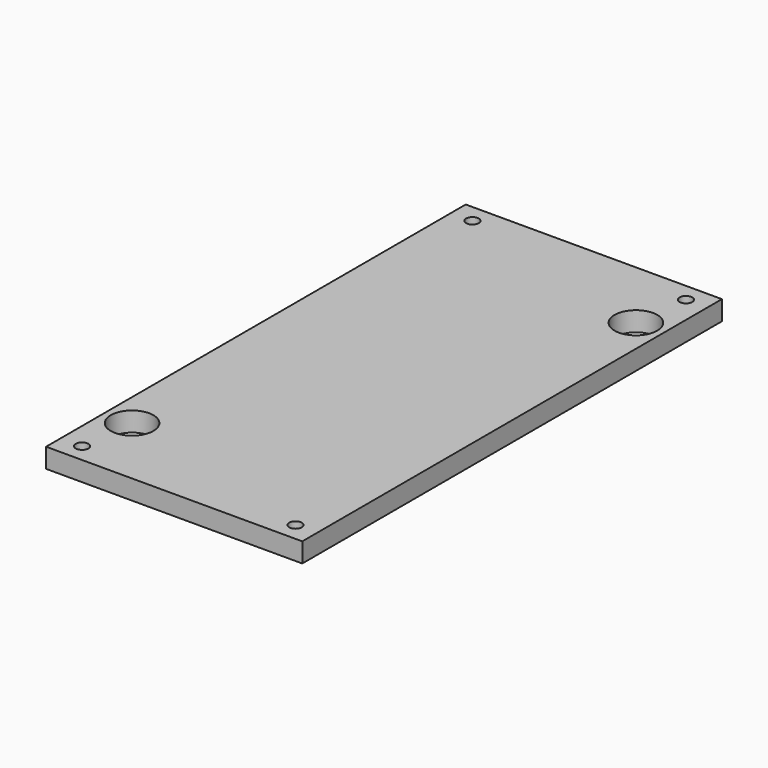
from build123d import *

# Parameters (mm, degrees)
SKETCH_W   = 21
SKETCH_H   = 43
SKETCH_R   = 0.52
SKETCH_R_2 = 1.75
PAD_DEPTH  = 1.6


with BuildPart() as part:
    # Sketch → Pad (new body)
    with BuildSketch(Plane.XY):
        Rectangle(SKETCH_W, SKETCH_H)
        with Locations((-8.75, 20)):
            Circle(SKETCH_R, mode=Mode.SUBTRACT)
        with Locations((8.75, 20)):
            Circle(SKETCH_R, mode=Mode.SUBTRACT)
        with Locations((-8.75, -20)):
            Circle(SKETCH_R, mode=Mode.SUBTRACT)
        with Locations((8.75, -20)):
            Circle(SKETCH_R, mode=Mode.SUBTRACT)
        with Locations((-8.25, -15.5)):
            Circle(SKETCH_R_2, mode=Mode.SUBTRACT)
        with Locations((8.25, 15.5)):
            Circle(SKETCH_R_2, mode=Mode.SUBTRACT)
    extrude(amount=PAD_DEPTH)


solid = part.part
